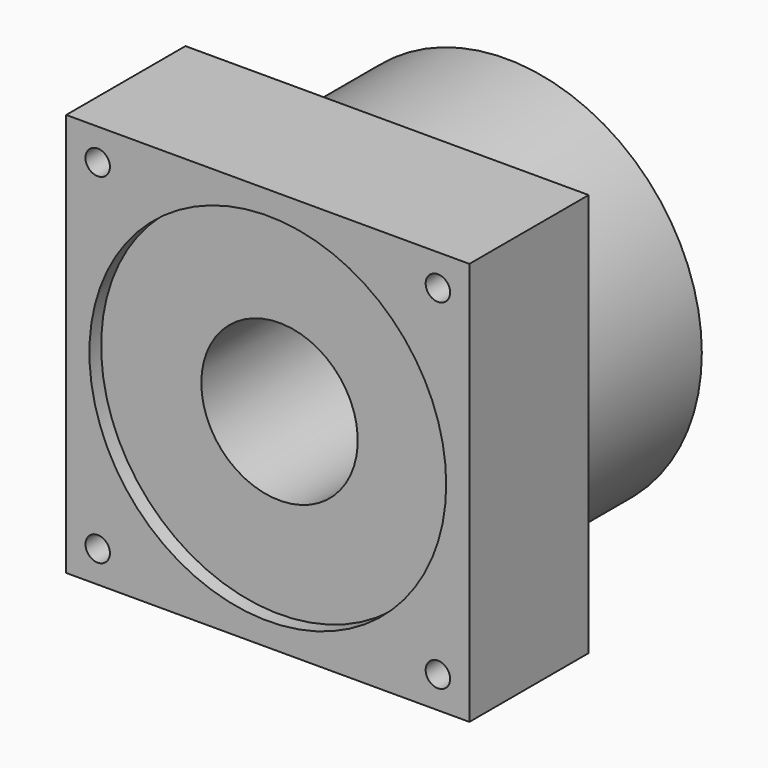
from build123d import *

# Parameters (mm, degrees)
F0_R      = 40
F1_DEPTH  = 30.5
F2_W      = 82.500003
F2_H      = 82.5
F3_DEPTH  = 30.5
F4_R      = 16
F5_DEPTH  = 61.001
F6_R      = 36.5
F7_DEPTH  = 3
F8_R      = 25
F9_DEPTH  = 7
F10_R     = 2.5
F11_DEPTH = 15
F12_R     = 3
F13_DEPTH = 15


with BuildPart() as f1:
    # F0 (on Front) → F1 (new body)
    with BuildSketch(Plane.XZ):
        Circle(F0_R)
    extrude(amount=F1_DEPTH)

    # F2 (on face) → F3 (join)
    with BuildSketch(Plane.XZ.offset(30.5)):
        with Locations((-1e-06, 0)):
            Rectangle(F2_W, F2_H)
    extrude(amount=F3_DEPTH)

    # F4 (on face) → F5 (cut, through all)
    with BuildSketch(Plane(origin=(0, 0, 0), x_dir=(-1, 0, 0), z_dir=(0, 1, 0))):
        Circle(F4_R)
    extrude(amount=-F5_DEPTH, mode=Mode.SUBTRACT)

    # F6 (on face) → F7 (cut)
    with BuildSketch(Plane.XZ.offset(61)):
        Circle(F6_R)
    extrude(amount=-F7_DEPTH, mode=Mode.SUBTRACT)

    # F8 (on face) → F9 (cut)
    with BuildSketch(Plane(origin=(0, 0, 0), x_dir=(-1, 0, 0), z_dir=(0, 1, 0))):
        Circle(F8_R)
    extrude(amount=-F9_DEPTH, mode=Mode.SUBTRACT)

    # F10 (on face) → F11 (cut)
    with BuildSketch(Plane.XZ.offset(61)):
        with Locations((-34.8, 34.8)):
            Circle(F10_R)
        with Locations((34.8, 34.8)):
            Circle(F10_R)
        with Locations((34.8, -34.8)):
            Circle(F10_R)
        with Locations((-34.8, -34.8)):
            Circle(F10_R)
    extrude(amount=-F11_DEPTH, mode=Mode.SUBTRACT)

    # F12 (on face) → F13 (cut)
    with BuildSketch(Plane(origin=(0, 0, 0), x_dir=(-1, 0, 0), z_dir=(0, 1, 0))):
        with Locations((-22.98097, 22.98097)):
            Circle(F12_R)
        with Locations((-22.98097, -22.98097)):
            Circle(F12_R)
        with Locations((22.98097, -22.98097)):
            Circle(F12_R)
        with Locations((22.98097, 22.98097)):
            Circle(F12_R)
    extrude(amount=-F13_DEPTH, mode=Mode.SUBTRACT)


solid = f1.part
